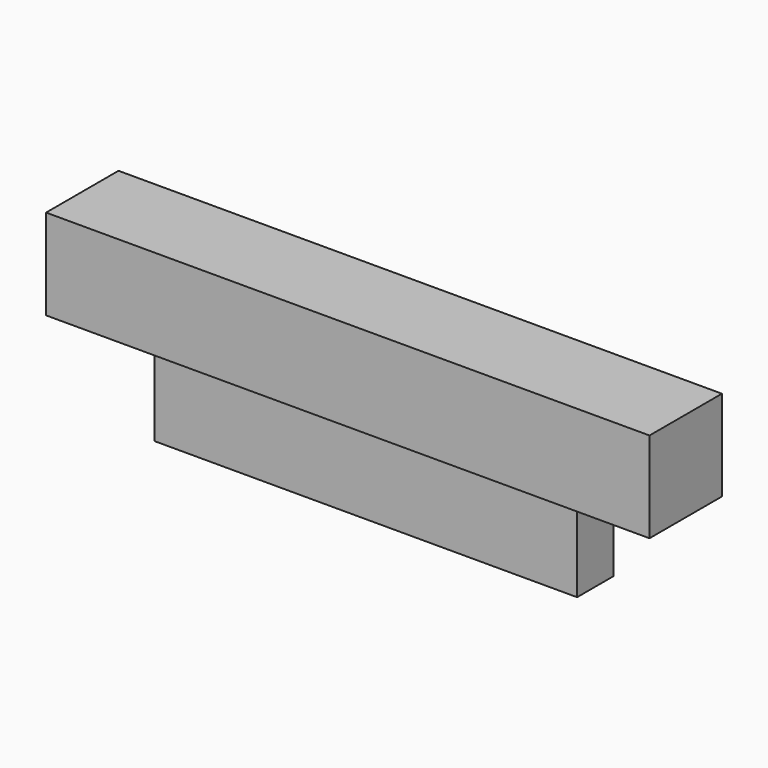
from build123d import *

# Parameters (mm, degrees)
F0_W     = 17.78
F0_H     = 3.81
F0_W_2   = 3.81
F1_DEPTH = 1.905
F2_DEPTH = 0.9525


with BuildPart() as f1:
    # F0 (on Front) → F1 (new body, symmetric)
    with BuildSketch(Plane.XZ):
        Rectangle(F0_W, F0_H)
        with Locations((10.795, 0)):
            Rectangle(F0_W_2, F0_H)
        with Locations((-10.795, 0)):
            Rectangle(F0_W_2, F0_H)
    extrude(amount=F1_DEPTH, both=True)

    # F0 (on Front) → F2 (join, symmetric)
    with BuildSketch(Plane.XZ):
        with Locations((0, -3.81)):
            Rectangle(F0_W, F0_H)
    extrude(amount=F2_DEPTH, both=True)


solid = f1.part
